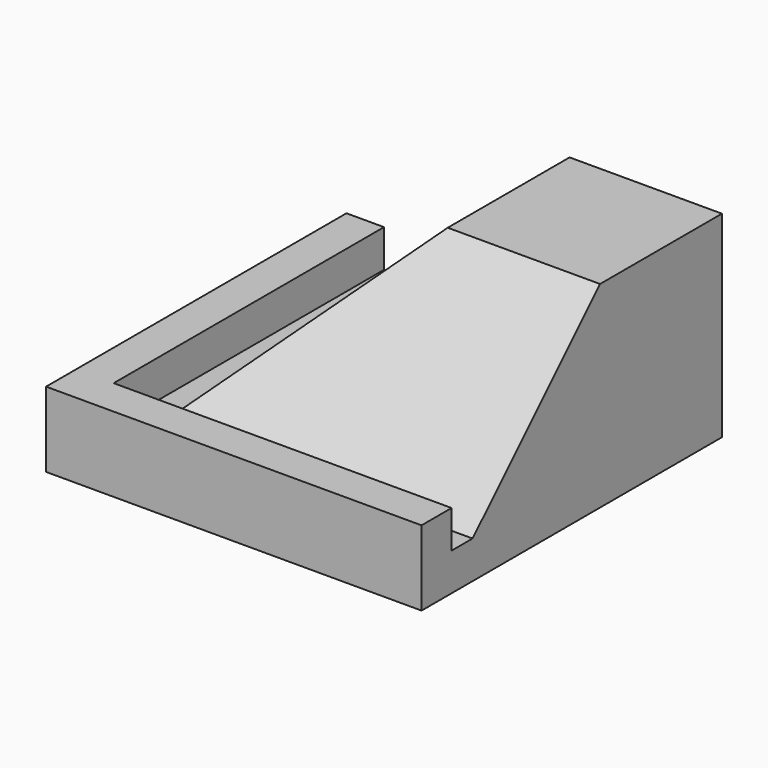
from build123d import *

# Parameters (mm, degrees)
F0_W      = 177.8
F0_H      = 177.8
F1_DEPTH  = 76.2
F3_DEPTH  = 156.21
F5_DEPTH  = 156.21
F6_DEPTH  = 76.9294632736
F8_DEPTH  = 21.591
F9_DEPTH  = 8.89
F2_W      = 50.8
F2_H      = 76.2
F10_DEPTH = 177.801
F4_W      = 50.8
F4_H      = 76.2
F11_DEPTH = 177.801


with BuildPart() as f1:
    # F0 (on Top) → F1 (new body)
    with BuildSketch(Plane.XY):
        Rectangle(F0_W, F0_H)
    extrude(amount=F1_DEPTH)

    # F2 (on face) → F3 (cut)
    with BuildSketch(Plane(origin=(0, 88.9, 0), x_dir=(-1, 0, 0), z_dir=(0, 1, 0))):
        Polygon((76.2, 25.4), (88.9, 25.4), (88.9, 76.2), (-11.9715367264, 76.2), (-11.9715367264, 66.5815367264), (13.4284632736, 66.5815367264), (67.31, 12.7), (76.2, 12.7), align=None)
    extrude(amount=-F3_DEPTH, mode=Mode.SUBTRACT)

    # F4 (on face) → F5 (cut)
    with BuildSketch(Plane.YZ.offset(88.9)):
        Polygon((-13.4284632736, 66.5815367264), (11.9715367264, 66.5815367264), (11.9715367264, 76.2), (-88.9, 76.2), (-88.9, 25.4), (-76.2, 25.4), (-76.2, 12.7), (-67.31, 12.7), align=None)
    extrude(amount=-F5_DEPTH, mode=Mode.SUBTRACT)

    # F6 (cut, through all): a face of the model
    f6_faces = [f1.faces().sort_by_distance(p)[0] for p in [
        (50.4357683632, 11.9715367264, 71.3907683632),
    ]]
    extrude(f6_faces, amount=-F6_DEPTH, mode=Mode.SUBTRACT)

    # F7 (on face) → F8 (cut, through all)
    with BuildSketch(Plane.YZ.offset(-67.31)):
        Polygon((-88.9, 76.2), (-88.9, 25.4), (-76.2, 25.4), (-67.31, 25.4), (-67.31, 76.2), align=None)
    extrude(amount=-F8_DEPTH, mode=Mode.SUBTRACT)

    # F9 (cut): a face of the model
    f9_faces = [f1.faces().sort_by_distance(p)[0] for p in [
        (-67.31, -71.755, 19.05),
    ]]
    extrude(f9_faces, amount=-F9_DEPTH, mode=Mode.SUBTRACT)

    # F2 (on face) → F10 (cut, through all)
    with BuildSketch(Plane(origin=(0, 88.9, 0), x_dir=(-1, 0, 0), z_dir=(0, 1, 0))):
        with Locations((-63.5, 38.1)):
            Rectangle(F2_W, F2_H)
    extrude(amount=-F10_DEPTH, mode=Mode.SUBTRACT)

    # F4 (on face) → F11 (cut, through all)
    with BuildSketch(Plane.YZ.offset(88.9)):
        with Locations((63.5, 38.1)):
            Rectangle(F4_W, F4_H)
    extrude(amount=-F11_DEPTH, mode=Mode.SUBTRACT)


solid = f1.part
